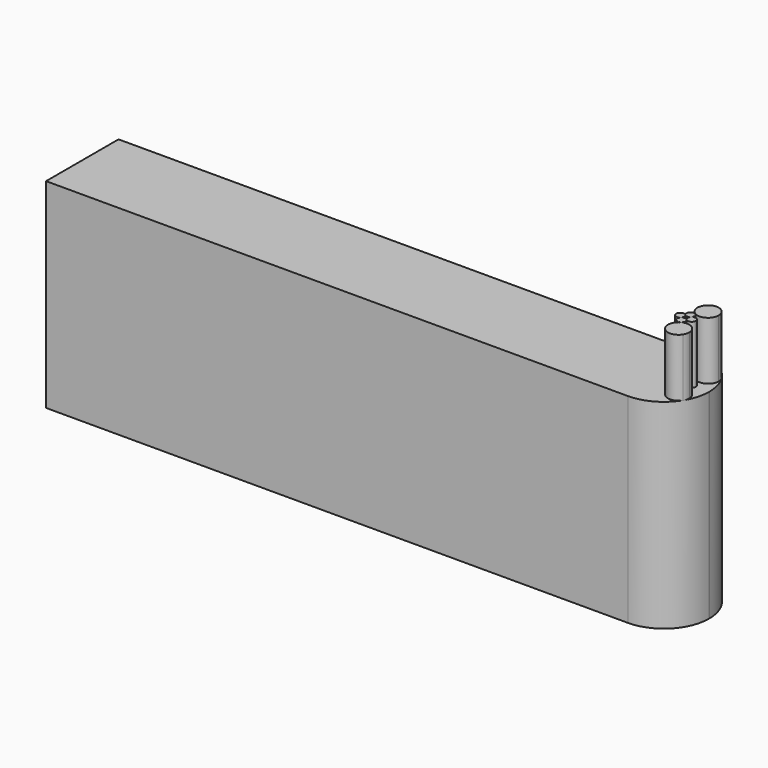
from build123d import *

# Parameters (mm, degrees)
F0_W     = 137.16
F0_H     = 43.688
F1_DEPTH = 9.906
F2_R     = 9.8552
F4_DEPTH = 12.7


with BuildPart() as f1:
    # F0 (on Front) → F1 (new body, symmetric)
    with BuildSketch(Plane.XZ):
        Rectangle(F0_W, F0_H)
    extrude(amount=F1_DEPTH, both=True)

    # F2
    f2_edges = [f1.edges().sort_by_distance(p)[0] for p in [
        (68.58, -9.906, 0),
        (68.58, 9.906, 0),
    ]]
    fillet(f2_edges, radius=F2_R)


with BuildPart() as f4:
    # F3 (on face) → F4 (new body)
    with BuildSketch(Plane.XY.offset(21.844)):
        with BuildLine():
            ThreePointArc((64.393712, 1.249132), (64.275415, 1.692232), (63.952007, 2.017407))
            ThreePointArc((63.952007, 2.017407), (62.802152, 1.793861), (62.872068, 0.624566))
            ThreePointArc((62.872068, 0.624566), (63.504712, 0.360132), (64.137356, 0.624566))
            ThreePointArc((64.137356, 0.624566), (64.327129, 0.911566), (64.393712, 1.249132))
        make_face()
        with BuildLine():
            ThreePointArc((63.128423, 0), (63.061841, 0.337565), (62.872068, 0.624566))
            ThreePointArc((62.872068, 0.624566), (61.350423, 0), (62.872068, -0.624566))
            ThreePointArc((62.872068, -0.624566), (63.061841, -0.337565), (63.128423, 0))
        make_face()
        with BuildLine():
            ThreePointArc((64.137356, -0.624566), (63.504712, -0.360132), (62.872068, -0.624566))
            ThreePointArc((62.872068, -0.624566), (62.802152, -1.793861), (63.952007, -2.017407))
            ThreePointArc((63.952007, -2.017407), (64.275415, -1.692232), (64.393712, -1.249132))
            ThreePointArc((64.393712, -1.249132), (64.327129, -0.911566), (64.137356, -0.624566))
        make_face()
        with BuildLine():
            ThreePointArc((65.659, 0), (65.107565, 0.822418), (64.137356, 0.624566))
            ThreePointArc((64.137356, 0.624566), (63.881, 0), (64.137356, -0.624566))
            ThreePointArc((64.137356, -0.624566), (65.107565, -0.822418), (65.659, 0))
        make_face()
        with BuildLine():
            ThreePointArc((63.952007, 2.017407), (66.279755, 2.011062), (67.445465, 4.0259))
            ThreePointArc((67.445465, 4.0259), (67.356222, 4.663751), (67.095348, 5.252617))
            ThreePointArc((67.095348, 5.252617), (63.454482, 5.645449), (63.952007, 2.017407))
        make_face()
        with BuildLine():
            ThreePointArc((63.952007, -2.017407), (63.454482, -5.645449), (67.095348, -5.252617))
            ThreePointArc((67.095348, -5.252617), (67.356222, -4.663751), (67.445465, -4.0259))
            ThreePointArc((67.445465, -4.0259), (66.279755, -2.011062), (63.952007, -2.017407))
        make_face()
    extrude(amount=F4_DEPTH)


solid = Compound([f1.part, f4.part])
